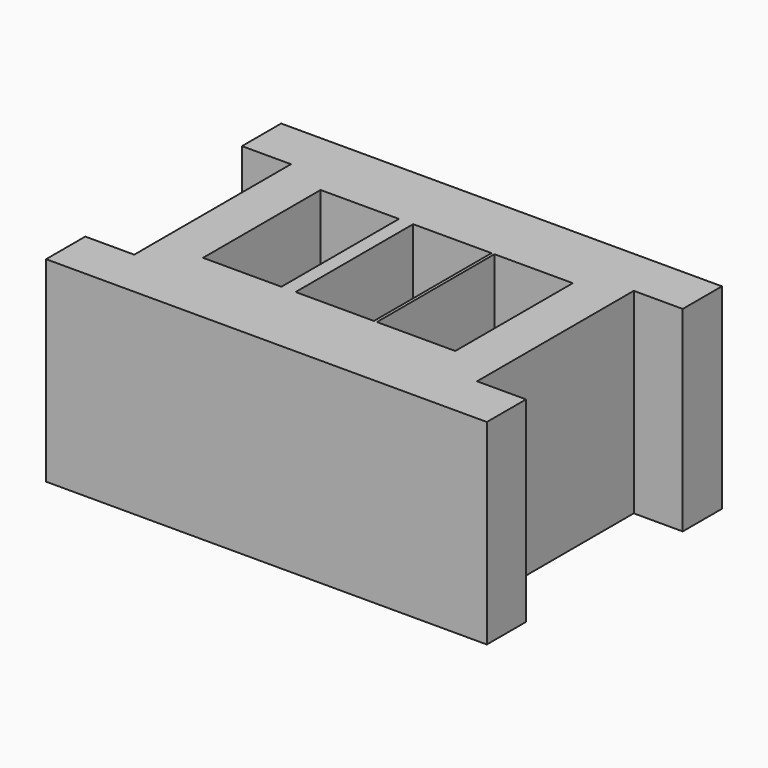
from build123d import *

# Parameters (mm, degrees)
F1_DEPTH = 50.8
F2_W     = 20.32
F2_H     = 38.1
F3_DEPTH = 50.8


with BuildPart() as f1:
    # F0 (on Top) → F1 (new body)
    with BuildSketch(Plane.XY):
        Polygon((0, 0), (-114.3, 0), (-114.3, -12.7), (-101.6, -12.7), (-101.6, -63.5), (-114.3, -63.5), (-114.3, -76.2), (0, -76.2), (0, -63.5), (-12.7, -63.5), (-12.7, -12.7), (0, -12.7), align=None)
    extrude(amount=F1_DEPTH)

    # F2 (on face) → F3 (cut)
    with BuildSketch(Plane.XY.offset(50.8)):
        with Locations((-34.606382, -36.83)):
            Rectangle(F2_W, F2_H)
        with Locations((-55.689771, -36.83)):
            Rectangle(F2_W, F2_H)
        with Locations((-79.693612, -36.83)):
            Rectangle(F2_W, F2_H)
    extrude(amount=-F3_DEPTH, mode=Mode.SUBTRACT)


solid = f1.part
